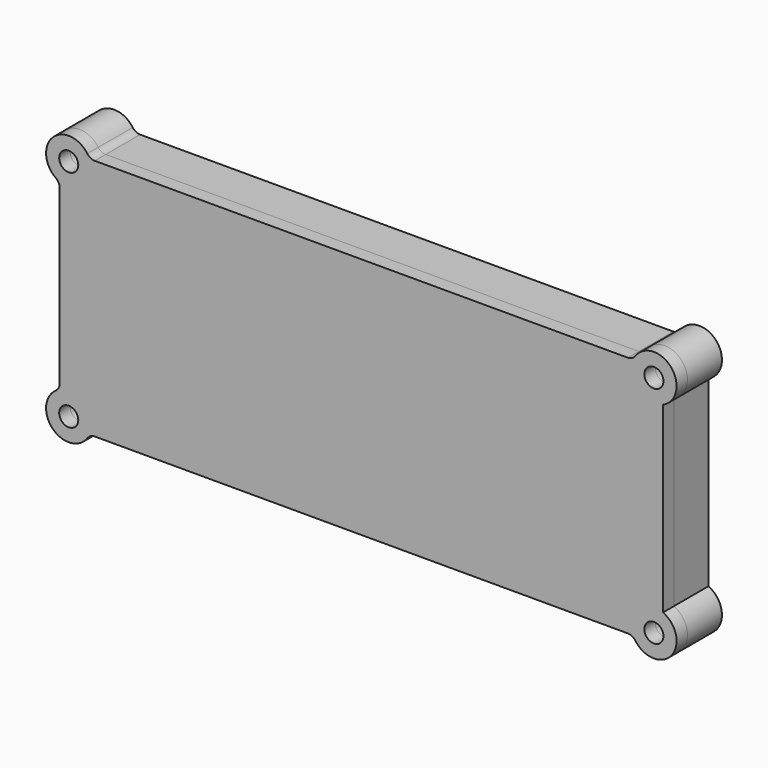
from build123d import *

# Parameters (mm, degrees)
F0_R     = 2.1
F0_W     = 121
F0_H     = 41.5
F1_DEPTH = 9.5
F2_R     = 2
F3_W     = 6.5
F3_H     = 3.5
F4_DEPTH = 1
F6_R     = 2.1
F7_DEPTH = 3


with BuildPart() as f1:
    # F0 (on Front) → F1 (new body)
    with BuildSketch(Plane.XZ):
        with BuildLine():
            ThreePointArc((66.5, 20.1620689322), (68.0260102981, 28.2760102981), (59.9120689322, 26.75))
            Line((59.9120689322, 26.75), (-59.9120689322, 26.75))
            ThreePointArc((-59.9120689322, 26.75), (-68.0260102981, 28.2760102981), (-66.5, 20.1620689322))
            Line((-66.5, 20.1620689322), (-66.5, -20.1620689322))
            ThreePointArc((-66.5, -20.1620689322), (-68.0260102981, -28.2760102981), (-59.9120689322, -26.75))
            Line((-59.9120689322, -26.75), (59.9120689322, -26.75))
            ThreePointArc((59.9120689322, -26.75), (68.0260102981, -28.2760102981), (66.5, -20.1620689322))
            Line((66.5, -20.1620689322), (66.5, 20.1620689322))
        make_face()
        with Locations((-64.4904763922, -24.7404763922)):
            Circle(F0_R, mode=Mode.SUBTRACT)
        with Locations((64.4904763922, -24.7404763922)):
            Circle(F0_R, mode=Mode.SUBTRACT)
        Rectangle(F0_W, F0_H, mode=Mode.SUBTRACT)
        with Locations((-64.4904763922, 24.7404763922)):
            Circle(F0_R, mode=Mode.SUBTRACT)
        with Locations((64.4904763922, 24.7404763922)):
            Circle(F0_R, mode=Mode.SUBTRACT)
    extrude(amount=F1_DEPTH)

    # F2
    f2_edges = [f1.edges().sort_by_distance(p)[0] for p in [
        (-59.912069, -4.75, 26.75),
        (-66.5, -4.75, 20.162069),
        (-66.5, -4.75, -20.162069),
        (-59.912069, -4.75, -26.75),
        (59.912069, -4.75, -26.75),
        (59.912069, -4.75, 26.75),
    ]]
    fillet(f2_edges, radius=F2_R)

    # F3 (on face) → F4 (cut)
    with BuildSketch(Plane(origin=(0, 0, 0), x_dir=(-1, 0, 0), z_dir=(0, 1, 0))):
        with Locations((-3.25, 22.5)):
            Rectangle(F3_W, F3_H)
        with Locations((3.25, 22.5)):
            Rectangle(F3_W, F3_H)
    extrude(amount=-F4_DEPTH, mode=Mode.SUBTRACT)


with BuildPart() as f7:
    # F6 (on offset) → F7 (new body)
    with BuildSketch(Plane.XZ.offset(9.5)):
        with BuildLine():
            Line((66.5, -20.1620689322), (66.5, 20.1620689322))
            ThreePointArc((66.5, 20.1620689322), (68.3554633659, 27.9125223713), (60.3919624481, 27.6044218263))
            ThreePointArc((60.3919624481, 27.6044218263), (59.6769062775, 26.976422211), (58.7525568704, 26.75))
            Line((58.7525568704, 26.75), (-58.7525568704, 26.75))
            ThreePointArc((-58.7525568704, 26.75), (-59.6769062775, 26.976422211), (-60.3919624481, 27.6044218263))
            ThreePointArc((-60.3919624481, 27.6044218263), (-68.0260102981, 28.2760102981), (-67.3544218263, 20.6419624481))
            ThreePointArc((-67.3544218263, 20.6419624481), (-66.726422211, 19.9269062775), (-66.5, 19.0025568704))
            Line((-66.5, 19.0025568704), (-66.5, -19.0025568704))
            ThreePointArc((-66.5, -19.0025568704), (-66.726422211, -19.9269062775), (-67.3544218263, -20.6419624481))
            ThreePointArc((-67.3544218263, -20.6419624481), (-68.0260102981, -28.2760102981), (-60.3919624481, -27.6044218263))
            ThreePointArc((-60.3919624481, -27.6044218263), (-59.6769062775, -26.976422211), (-58.7525568704, -26.75))
            Line((-58.7525568704, -26.75), (58.7525568704, -26.75))
            ThreePointArc((58.7525568704, -26.75), (59.6769062775, -26.976422211), (60.3919624481, -27.6044218263))
            ThreePointArc((60.3919624481, -27.6044218263), (68.3554633659, -27.9125223713), (66.5, -20.1620689322))
        make_face()
        with Locations((-64.4904763922, -24.7404763922)):
            Circle(F6_R, mode=Mode.SUBTRACT)
        with Locations((64.4904763922, -24.7404763922)):
            Circle(F6_R, mode=Mode.SUBTRACT)
        with Locations((-64.4904763922, 24.7404763922)):
            Circle(F6_R, mode=Mode.SUBTRACT)
        with Locations((64.4904763922, 24.7404763922)):
            Circle(F6_R, mode=Mode.SUBTRACT)
    extrude(amount=F7_DEPTH)


solid = Compound([f1.part, f7.part])
